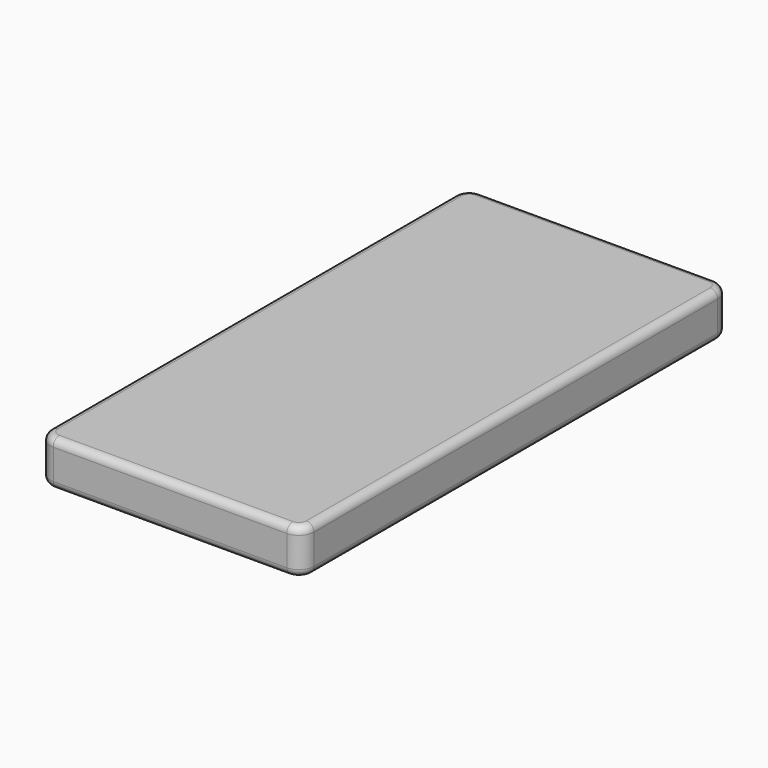
from build123d import *

# Parameters (mm, degrees)
F0_W     = 222.25
F0_H     = 222.25
F2_DEPTH = 38.1
F3_R     = 12.7
F4_R     = 6.35
F1_W     = 222.25
F1_H     = 450.85
F5_DEPTH = 38.1
F6_R     = 12.7
F7_R     = 6.35


with BuildPart() as f2:
    # F0 (on Top) → F2 (new body)
    with BuildSketch(Plane.XY):
        Rectangle(F0_W, F0_H)
    extrude(amount=F2_DEPTH)

    # F3
    f3_edges = [f2.edges().sort_by_distance(p)[0] for p in [
        (-111.125, -111.125, 19.05),
        (111.125, -111.125, 19.05),
        (111.125, 111.125, 19.05),
        (-111.125, 111.125, 19.05),
    ]]
    fillet(f3_edges, radius=F3_R)

    # F4
    f4_edges = [f2.edges().sort_by_distance(p)[0] for p in [
        (0, 111.125, 38.1),
        (107.405256, 107.405256, 38.1),
        (-107.405256, 107.405256, 38.1),
        (111.125, 0, 38.1),
        (-111.125, 0, 38.1),
        (107.405256, -107.405256, 38.1),
        (-107.405256, -107.405256, 38.1),
        (0, -111.125, 38.1),
        (0, 111.125, 0),
        (107.405256, 107.405256, 0),
        (-107.405256, 107.405256, 0),
        (111.125, 0, 0),
        (-111.125, 0, 0),
        (107.405256, -107.405256, 0),
        (-107.405256, -107.405256, 0),
        (0, -111.125, 0),
    ]]
    fillet(f4_edges, radius=F4_R)


with BuildPart() as f5:
    # F1 (on Top) → F5 (new body)
    with BuildSketch(Plane.XY):
        Rectangle(F1_W, F1_H)
    extrude(amount=F5_DEPTH)

    # F6
    f6_edges = [f5.edges().sort_by_distance(p)[0] for p in [
        (-111.125, -225.425, 19.05),
        (111.125, -225.425, 19.05),
        (111.125, 225.425, 19.05),
        (-111.125, 225.425, 19.05),
    ]]
    fillet(f6_edges, radius=F6_R)

    # F7
    f7_edges = [f5.edges().sort_by_distance(p)[0] for p in [
        (0, 225.425, 38.1),
        (107.405256, 221.705256, 38.1),
        (-107.405256, 221.705256, 38.1),
        (111.125, 0, 38.1),
        (-111.125, 0, 38.1),
        (107.405256, -221.705256, 38.1),
        (-107.405256, -221.705256, 38.1),
        (0, -225.425, 38.1),
        (0, 225.425, 0),
        (107.405256, 221.705256, 0),
        (-107.405256, 221.705256, 0),
        (111.125, 0, 0),
        (-111.125, 0, 0),
        (107.405256, -221.705256, 0),
        (-107.405256, -221.705256, 0),
        (0, -225.425, 0),
    ]]
    fillet(f7_edges, radius=F7_R)


solid = Compound([f2.part, f5.part])
